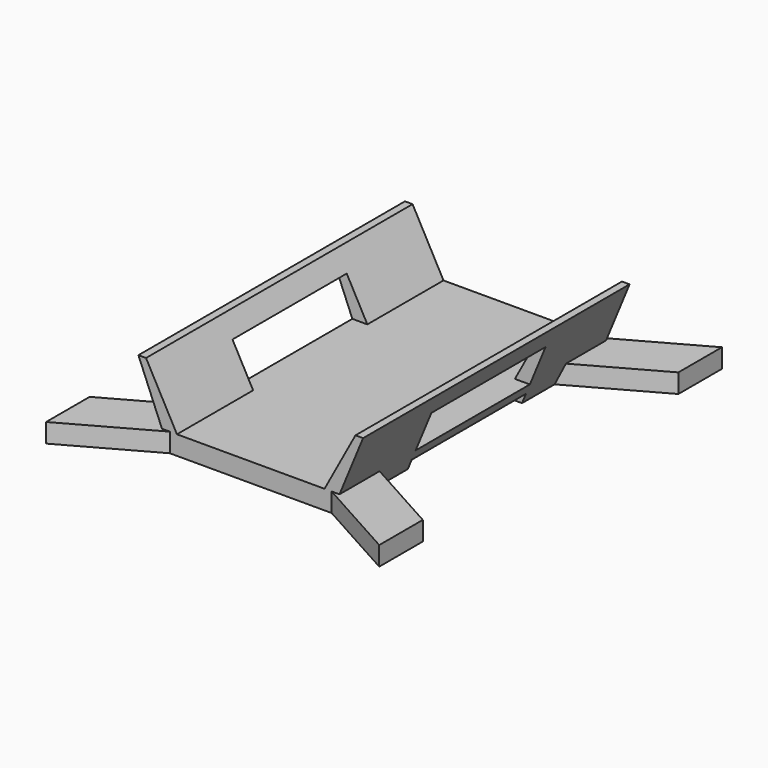
from build123d import *

# Parameters (mm, degrees)
F1_DEPTH = 17.5
F2_W     = 15
F2_H     = 4
F2_H_2   = 1
F3_DEPTH = 50
F5_DEPTH = 2


with BuildPart() as f1:
    # F0 (on Front) → F1 (new body, symmetric)
    with BuildSketch(Plane.XZ):
        Polygon((-8.5, 0), (0, 0), (8.5, 0), (11.8, 8), (11, 8), (7.75, 2), (0, 2), (-7.75, 2), (-11, 8), (-11.8, 8), align=None)
    extrude(amount=F1_DEPTH, both=True)

    # F2 (on Right) → F3 (cut, symmetric)
    with BuildSketch(Plane.YZ):
        with Locations((0, 4)):
            Rectangle(F2_W, F2_H)
        with Locations((0, 0.5)):
            Rectangle(F2_W, F2_H_2)
    extrude(amount=F3_DEPTH, both=True, mode=Mode.SUBTRACT)

    # F4 (on face) → F5 (join)
    with BuildSketch(Plane(origin=(0, 0, 0), x_dir=(1, 0, 0), z_dir=(0, 0, -1))):
        Polygon((-8.5, 11.780205), (-8.5, 17.5), (-17.5, 22.5), (-17.5, 16.780205), align=None)
        Polygon((-8.5, -11.780205), (-17.5, -16.780205), (-17.5, -22.5), (-8.5, -17.5), align=None)
        Polygon((8.5, -11.780205), (8.5, -17.5), (17.5, -22.5), (17.5, -16.780205), align=None)
        Polygon((17.5, 22.5), (8.5, 17.5), (8.5, 11.780205), (17.5, 16.780205), align=None)
    extrude(amount=-F5_DEPTH)


solid = f1.part
